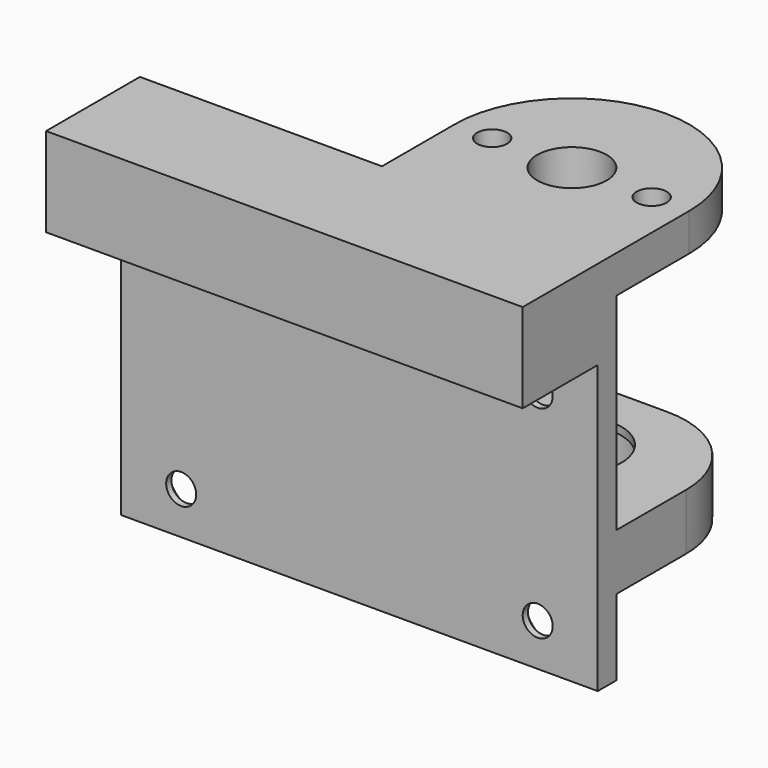
from build123d import *

# Parameters (mm, degrees)
PAD016_DEPTH    = 4
SKETCH074_W     = 50.8
SKETCH074_H     = 2.5
PAD017_DEPTH    = 36.1
SKETCH082_W     = 50.8
SKETCH082_H     = 10
PAD018_DEPTH    = 5.5
SKETCH075_R     = 3.7
POCKET065_DEPTH = 5
SKETCH076_R     = 1.6
POCKET066_DEPTH = 5
SKETCH077_W     = 50.8
SKETCH077_H     = 6
PAD019_DEPTH    = 19.27
SKETCH078_R     = 6.585
POCKET067_DEPTH = 5.1625
SKETCH079_R     = 5.25
POCKET068_DEPTH = 5
SKETCH080_R     = 2.75
POCKET069_DEPTH = 4
SKETCH081_R     = 1.6
POCKET070_DEPTH = 5
CHAMFER010_SIZE = 1.8
CHAMFER011_SIZE = 1
CHAMFER012_SIZE = 1.5
FILLET001_R     = 10


with BuildPart() as part:
    # Sketch073 → Pad016 (new body)
    with BuildSketch(Plane.XY):
        with BuildLine():
            Line((-25.4, 2.5), (-25.4, -10))
            Line((-25.4, -10), (25.4, -10))
            Line((25.4, -10), (25.4, 2.5))
            Line((25.4, 2.5), (25.4, 12.185))
            ThreePointArc((25.4, 12.185), (12.9, 24.685), (0.4, 12.185))
            Line((0.4, 2.5), (0.4, 12.185))
            Line((0.4, 2.5), (-25.4, 2.5))
        make_face()
    extrude(amount=PAD016_DEPTH)

    # Sketch074 (on Face8 of Pad016) → Pad017 (join)
    with BuildSketch(Plane(origin=(0, 0, 0), x_dir=(1, 0, 0), z_dir=(0, 0, -1))):
        with Locations((0, -1.25)):
            Rectangle(SKETCH074_W, SKETCH074_H)
    extrude(amount=PAD017_DEPTH)

    # Sketch082 (on Face5 of Pad017) → Pad018 (join)
    with BuildSketch(Plane(origin=(0, 0, 0), x_dir=(1, 0, 0), z_dir=(0, 0, -1))):
        with Locations((0, 5)):
            Rectangle(SKETCH082_W, SKETCH082_H)
    extrude(amount=PAD018_DEPTH)

    # Sketch075 → Pocket065 (cut)
    with BuildSketch(Plane.XY.offset(4)):
        with Locations((12.9, 12.185)):
            Circle(SKETCH075_R)
    extrude(amount=-POCKET065_DEPTH, mode=Mode.SUBTRACT)

    # Sketch076 → Pocket066 (cut)
    with BuildSketch(Plane(origin=(0, 2.5, 0), x_dir=(-1, 0, 0), z_dir=(0, 1, 0))):
        with Locations((-19, -10)):
            Circle(SKETCH076_R)
        with Locations((19, -10)):
            Circle(SKETCH076_R)
        with Locations((19, -31.575)):
            Circle(SKETCH076_R)
        with Locations((-19, -31.575)):
            Circle(SKETCH076_R)
    extrude(amount=-POCKET066_DEPTH, mode=Mode.SUBTRACT)

    # Sketch077 → Pad019 (join)
    with BuildSketch(Plane(origin=(0, 2.5, 0), x_dir=(-1, 0, 0), z_dir=(0, 1, 0))):
        with Locations((0, -25)):
            Rectangle(SKETCH077_W, SKETCH077_H)
    extrude(amount=PAD019_DEPTH)

    # Sketch078 (on Face27 of Pad019) → Pocket067 (cut)
    with BuildSketch(Plane(origin=(0, 0, -28), x_dir=(1, 0, 0), z_dir=(0, 0, -1))):
        with Locations((12.9, -12.185)):
            Circle(SKETCH078_R)
    extrude(amount=-POCKET067_DEPTH, mode=Mode.SUBTRACT)

    # Sketch079 (on Face31 of Pocket067) → Pocket068 (cut)
    with BuildSketch(Plane(origin=(0, 0, -22.8375), x_dir=(1, 0, 0), z_dir=(0, 0, -1))):
        with Locations((12.9, -12.185)):
            Circle(SKETCH079_R)
    extrude(amount=-POCKET068_DEPTH, mode=Mode.SUBTRACT)

    # Sketch080 (on Face27 of Pocket068) → Pocket069 (cut)
    with BuildSketch(Plane(origin=(0, 0, -28), x_dir=(1, 0, 0), z_dir=(0, 0, -1))):
        with Locations((-19.9, -12.185)):
            Circle(SKETCH080_R)
    extrude(amount=-POCKET069_DEPTH, mode=Mode.SUBTRACT)

    # Sketch081 → Pocket070 (cut)
    with BuildSketch(Plane.XY.offset(4)):
        with Locations((4.4, 12.185)):
            Circle(SKETCH081_R)
        with Locations((21.4, 12.185)):
            Circle(SKETCH081_R)
    extrude(amount=-POCKET070_DEPTH, mode=Mode.SUBTRACT)

    # Chamfer010
    chamfer010_edges = [part.edges().sort_by_distance(p)[0] for p in [
        (20.6, 2.5, -31.575),
        (-17.4, 2.5, -31.575),
        (20.6, 2.5, -10),
        (-17.4, 2.5, -10),
    ]]
    chamfer(chamfer010_edges, length=CHAMFER010_SIZE)

    # Chamfer011
    chamfer011_edges = [part.edges().sort_by_distance(p)[0] for p in [
        (6.315, 12.185, -28),
        (-22.65, 12.185, -28),
    ]]
    chamfer(chamfer011_edges, length=CHAMFER011_SIZE)

    # Chamfer012
    chamfer012_edges = [part.edges().sort_by_distance(p)[0] for p in [
        (19.8, 12.185, 0),
        (2.8, 12.185, 0),
    ]]
    chamfer(chamfer012_edges, length=CHAMFER012_SIZE)

    # Fillet001
    fillet001_edges = [part.edges().sort_by_distance(p)[0] for p in [
        (25.4, 21.77, -25),
        (-25.4, 21.77, -25),
    ]]
    fillet(fillet001_edges, radius=FILLET001_R)


solid = part.part
